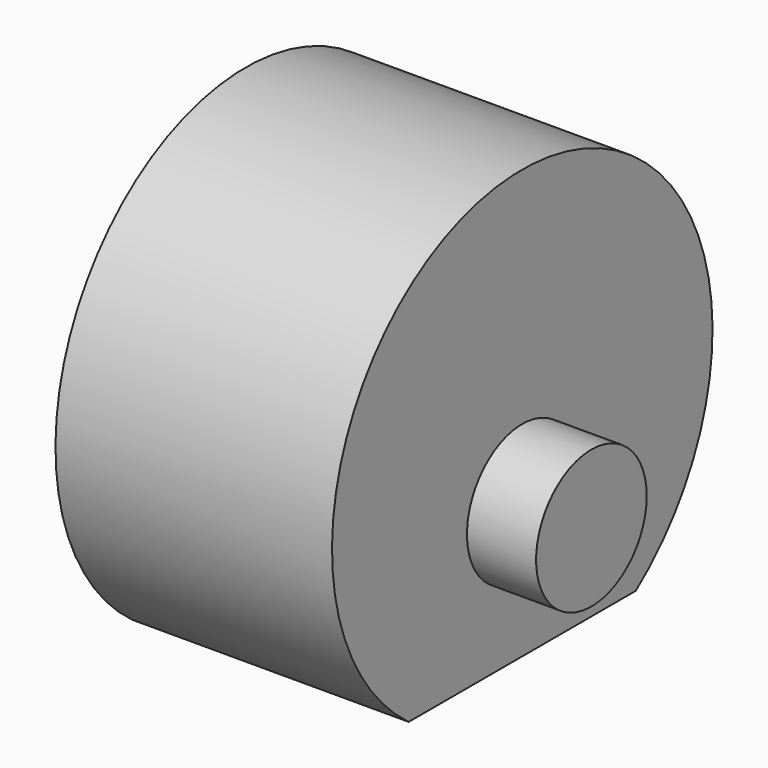
from build123d import *

# Parameters (mm, degrees)
F1_DEPTH = 6.35
F2_R     = 3.175
F3_DEPTH = 9.525
F4_R     = 3.175
F5_DEPTH = 9.525
F6_R     = 3.175
F7_DEPTH = 12.7


with BuildPart() as f1:
    # F0 (on Right) → F1 (new body, symmetric)
    with BuildSketch(Plane.YZ):
        with BuildLine():
            Line((-6.519195886, -6.223), (6.519195886, -6.223))
            ThreePointArc((6.519195886, -6.223), (0, 13.462), (-6.519195886, -6.223))
        make_face()
    extrude(amount=F1_DEPTH, both=True)



with BuildPart() as f3:
    # F2 (on Right) → F3 (new body, symmetric)
    with BuildSketch(Plane.YZ):
        Circle(F2_R)
    extrude(amount=F3_DEPTH, both=True)


with BuildPart() as f1_1:
    add(f1.part)

    add(f3.part)  # F5 merges F3
    # F4 (on Right) → F5 (join, symmetric)
    with BuildSketch(Plane.YZ):
        Circle(F4_R)
    extrude(amount=F5_DEPTH, both=True)

    # F6 (on face) → F7 (cut)
    with BuildSketch(Plane(origin=(0, 0, -6.223), x_dir=(1, 0, 0), z_dir=(0, 0, -1))):
        Circle(F6_R)
    extrude(amount=-F7_DEPTH, mode=Mode.SUBTRACT)


solid = f1_1.part
